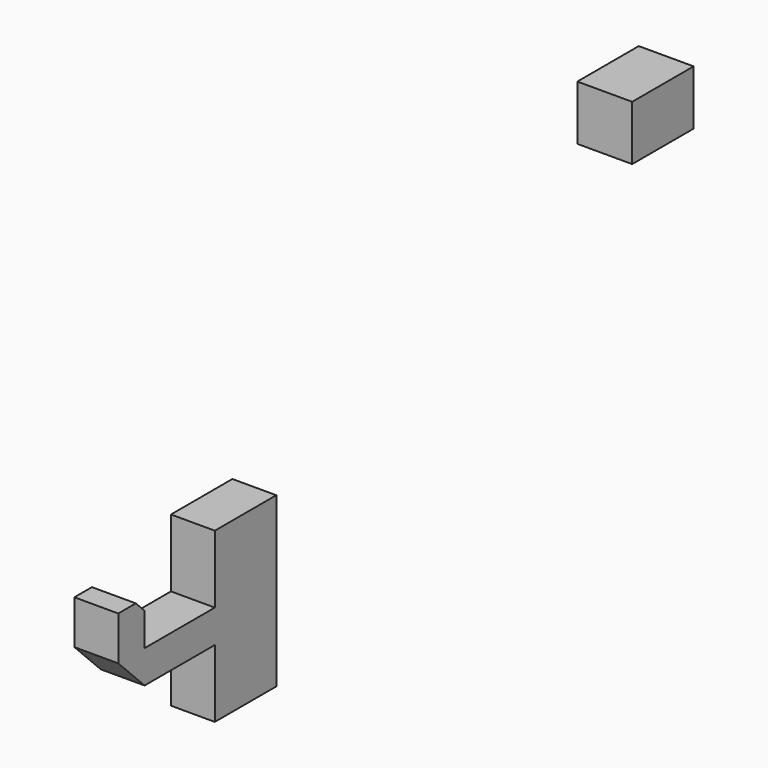
from build123d import *

# Parameters (mm, degrees)
F1_W      = 5
F1_H      = 5
F2_DEPTH  = 7
F5_W      = 4
F5_H      = 15.3435859829
F6_DEPTH  = 7
F7_W      = 4
F7_H      = 3
F8_DEPTH  = 11
F9_W      = 4
F9_H      = 3
F10_DEPTH = 4
F11_SIZE  = 3
F12_SIZE  = 1


with BuildPart() as f2:
    # F1 (on Front) → F2 (new body)
    with BuildSketch(Plane.XZ):
        with Locations((-47.4, 51.9482120872)):
            Rectangle(F1_W, F1_H)
    extrude(amount=F2_DEPTH)


with BuildPart() as f6:
    # F5 (on Front) → F6 (new body)
    with BuildSketch(Plane.XZ):
        with Locations((-84.9350026808, 0)):
            Rectangle(F5_W, F5_H)
        with Locations((-84.9350026808, 0)):
            Rectangle(F5_W, F5_H)
    extrude(amount=F6_DEPTH)

    # F7 (on face) → F8 (join)
    with BuildSketch(Plane.XZ.offset(7)):
        with Locations((-84.9350026808, 0)):
            Rectangle(F7_W, F7_H)
    extrude(amount=F8_DEPTH)

    # F9 (on face) → F10 (join)
    with BuildSketch(Plane.XY.offset(1.5)):
        with Locations((-84.9350026808, -16.5)):
            Rectangle(F9_W, F9_H)
    extrude(amount=F10_DEPTH)

    # F11
    f11_edges = [f6.edges().sort_by_distance(p)[0] for p in [
        (-84.935003, -18, -1.5),
    ]]
    chamfer(f11_edges, length=F11_SIZE)

    # F12
    f12_edges = [f6.edges().sort_by_distance(p)[0] for p in [
        (-84.935003, -15, 5.5),
    ]]
    chamfer(f12_edges, length=F12_SIZE)


solid = Compound([f2.part, f6.part])
